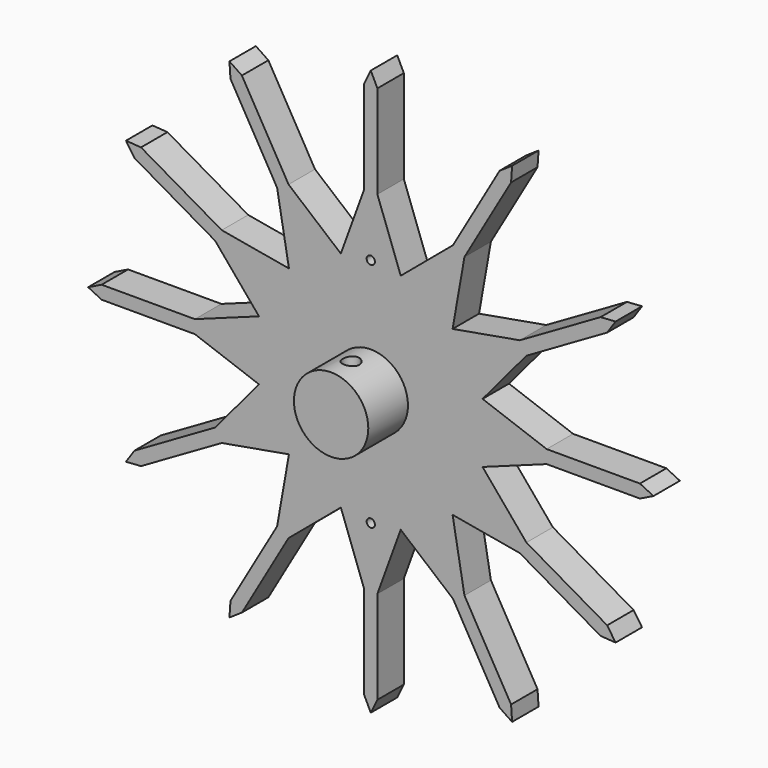
from build123d import *

# Parameters (mm, degrees)
F2_DEPTH  = 25.4
F3_R      = 28.575
F4_DEPTH  = 63.5
F5_R      = 15.875
F6_DEPTH  = 57.15
F9_R      = 6.35
F10_DEPTH = 63.5
F11_R     = 3.175
F12_DEPTH = 25.4


with BuildPart() as f2:
    # F1 (on face) → F2 (new body)
    with BuildSketch(Plane.XZ):
        Polygon((5.08, 135.130365), (5.08, 206.777484), (0, 217.17), (-5.08, 206.777484), (-5.08, 135.130365), (-23.009013, 85.870806), (0, 0), (23.009013, 85.870806), align=None)
        Polygon((63.165773, 119.566329), (23.009013, 85.870806), (0, 0), (62.861793, 62.861793), (71.964591, 114.486329), (107.788151, 176.534554), (108.585, 188.074737), (98.989333, 181.614554), align=None)
        Polygon((-62.861793, 62.861793), (0, 0), (-23.009013, 85.870806), (-63.165773, 119.566329), (-98.989333, 181.614554), (-108.585, 188.074737), (-107.788151, 176.534554), (-71.964591, 114.486329), align=None)
        Polygon((-85.870806, 23.009013), (0, 0), (-62.861793, 62.861793), (-114.486329, 71.964591), (-176.534554, 107.788151), (-188.074737, 108.585), (-181.614554, 98.989333), (-119.566329, 63.165773), align=None)
        Polygon((-85.870806, -23.009013), (0, 0), (-85.870806, 23.009013), (-135.130365, 5.08), (-206.777484, 5.08), (-217.17, 0), (-206.777484, -5.08), (-135.130365, -5.08), align=None)
        Polygon((-62.861793, -62.861793), (0, 0), (-85.870806, -23.009013), (-119.566329, -63.165773), (-181.614554, -98.989333), (-188.074737, -108.585), (-176.534554, -107.788151), (-114.486329, -71.964591), align=None)
        Polygon((-23.009013, -85.870806), (0, 0), (-62.861793, -62.861793), (-71.964591, -114.486329), (-107.788151, -176.534554), (-108.585, -188.074737), (-98.989333, -181.614554), (-63.165773, -119.566329), align=None)
        Polygon((23.009013, -85.870806), (0, 0), (-23.009013, -85.870806), (-5.08, -135.130365), (-5.08, -206.777484), (0, -217.17), (5.08, -206.777484), (5.08, -135.130365), align=None)
        Polygon((62.861793, -62.861793), (0, 0), (23.009013, -85.870806), (63.165773, -119.566329), (98.989333, -181.614554), (108.585, -188.074737), (107.788151, -176.534554), (71.964591, -114.486329), align=None)
        Polygon((85.870806, -23.009013), (0, 0), (62.861793, -62.861793), (114.486329, -71.964591), (176.534554, -107.788151), (188.074737, -108.585), (181.614554, -98.989333), (119.566329, -63.165773), align=None)
        Polygon((85.870806, 23.009013), (0, 0), (85.870806, -23.009013), (135.130365, -5.08), (206.777484, -5.08), (217.17, 0), (206.777484, 5.08), (135.130365, 5.08), align=None)
        Polygon((62.861793, 62.861793), (0, 0), (85.870806, 23.009013), (119.566329, 63.165773), (181.614554, 98.989333), (188.074737, 108.585), (176.534554, 107.788151), (114.486329, 71.964591), align=None)
    extrude(amount=F2_DEPTH)

    # F3 (on face) → F4 (join)
    with BuildSketch(Plane.XZ):
        Circle(F3_R)
    extrude(amount=F4_DEPTH)

    # F5 (on face) → F6 (cut)
    with BuildSketch(Plane.XZ):
        Circle(F5_R)
    extrude(amount=F6_DEPTH, mode=Mode.SUBTRACT)

    # F9 (on offset) → F10 (cut)
    with BuildSketch(Plane.XY.offset(28.575)):
        with Locations((0, -44.45)):
            Circle(F9_R)
    extrude(amount=-F10_DEPTH, mode=Mode.SUBTRACT)

    # F11 (on face) → F12 (cut)
    with BuildSketch(Plane.XZ):
        with Locations((0, -88.9)):
            Circle(F11_R)
        with Locations((0, 88.9)):
            Circle(F11_R)
    extrude(amount=F12_DEPTH, mode=Mode.SUBTRACT)


solid = f2.part
